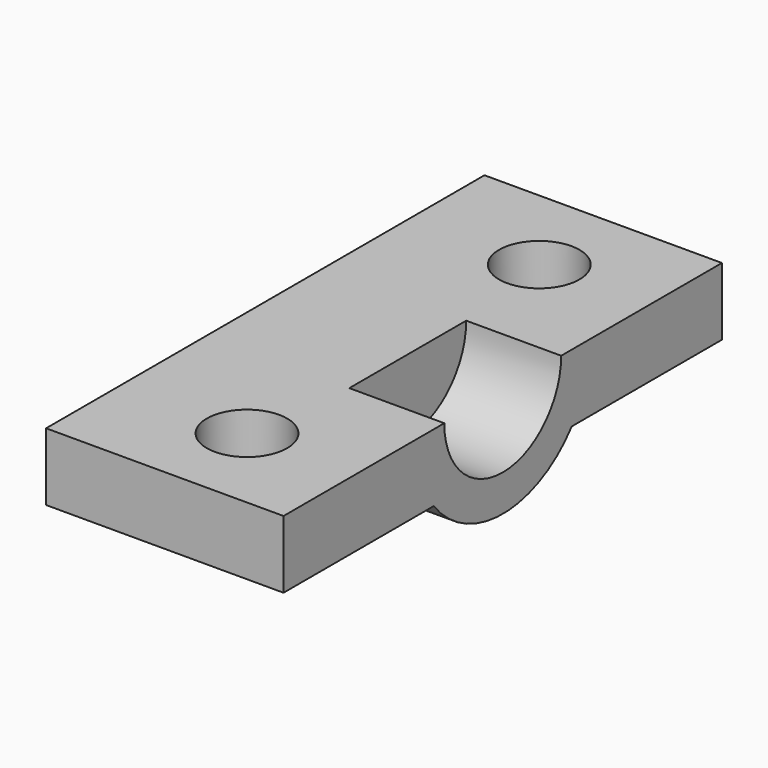
from build123d import *

# Parameters (mm, degrees)
CYLINDER073_R          = 2.2
CYLINDER073_DEPTH      = 20
CYLINDER074_R          = 2.2
CYLINDER074_DEPTH      = 20
CYLINDER072_R          = 4
CYLINDER072_DEPTH      = 6.5
CYLINDER071_W          = 6
CYLINDER071_H          = 11
CYLINDER071_ANGLE      = 180
BOX054_W               = 30
BOX054_H               = 3.7
BOX054_DEPTH           = 13
CUT089_ROLL_ANGLE      = 90
CUT089_PLACEMENT_ANGLE = 90


with BuildPart() as zylinder062:
    # Cylinder073 → Cylinder073 (new body)
    with BuildSketch(Plane(origin=(-10, 9, 5), x_dir=(1, 0, 0), z_dir=(0, -1, 0))):
        Circle(CYLINDER073_R)
    extrude(amount=CYLINDER073_DEPTH)


with BuildPart() as zylinder063:
    # Cylinder074 → Cylinder074 (new body)
    with BuildSketch(Plane(origin=(10, 9, 5), x_dir=(1, 0, 0), z_dir=(0, -1, 0))):
        Circle(CYLINDER074_R)
    extrude(amount=CYLINDER074_DEPTH)


with BuildPart() as zylinder061:
    # Cylinder072 → Cylinder072 (new body)
    with BuildSketch(Plane.XY.offset(5.8)):
        Circle(CYLINDER072_R)
    extrude(amount=CYLINDER072_DEPTH)


with BuildPart() as zylinder060:
    # Cylinder071 → Cylinder071 (revolve)
    with BuildSketch(Plane(origin=(0, 0, 0), x_dir=(-1, 0, 0), z_dir=(0, 1, 0))):
        with Locations((3, 5.5)):
            Rectangle(CYLINDER071_W, CYLINDER071_H)
    revolve(axis=Axis((0, 0, 0), (0, 0, 1)), revolution_arc=CYLINDER071_ANGLE)


with BuildPart() as y_drive_mount_top002:
    # Box054 → Box054 (new body)
    with BuildSketch(Plane(origin=(-15, -3.7, -2), x_dir=(1, 0, 0), z_dir=(0, 0, 1))):
        with Locations((15, 1.85)):
            Rectangle(BOX054_W, BOX054_H)
    extrude(amount=BOX054_DEPTH)

    # Fusion041: union Zylinder060
    add(zylinder060.part)

    # Cut081: cut Zylinder061
    add(zylinder061.part, mode=Mode.SUBTRACT)

    # Cut082: cut Zylinder063
    add(zylinder063.part, mode=Mode.SUBTRACT)

    # Cut089: cut Zylinder062
    add(zylinder062.part, mode=Mode.SUBTRACT)


with BuildPart() as y_drive_mount_top002_1:
    # Cut089 roll: moved
    add(y_drive_mount_top002.part.rotate(Axis((0, 0, 0), (1, 0, 0)), CUT089_ROLL_ANGLE))


with BuildPart() as y_drive_mount_top002_2:
    # Cut089 placement: moved
    add(y_drive_mount_top002_1.part.moved(Location((-32.75, 652.85, 53.2))).rotate(Axis((-32.75, 652.85, 53.2), (0, 0, 1)), CUT089_PLACEMENT_ANGLE))


solid = y_drive_mount_top002_2.part
